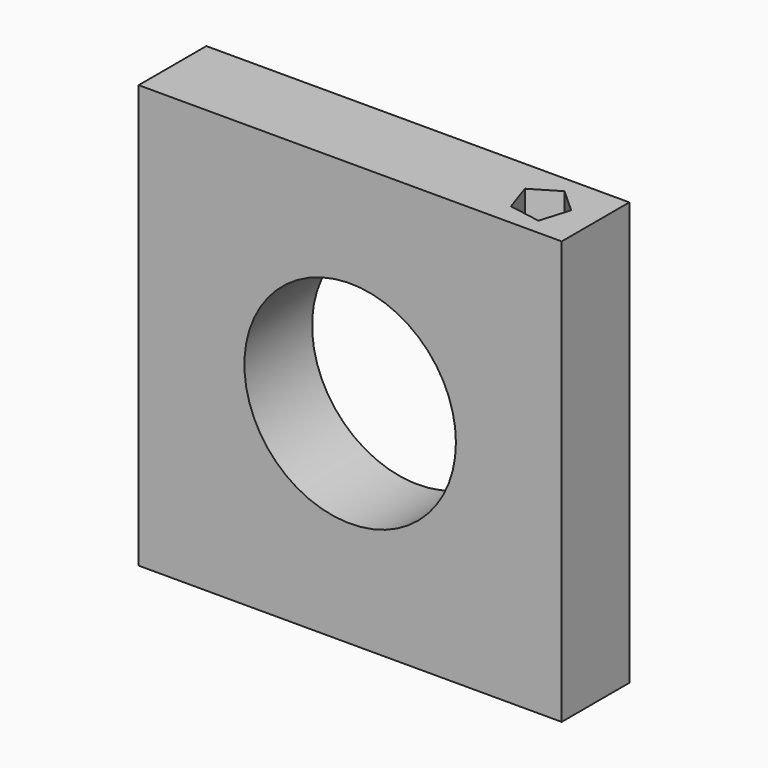
from build123d import *

# Parameters (mm, degrees)
F0_W     = 127
F0_H     = 127
F1_DEPTH = 25.4
F2_R     = 31.75
F3_DEPTH = 25.401
F5_DEPTH = 127.001


with BuildPart() as f1:
    # F0 (on Front) → F1 (new body)
    with BuildSketch(Plane.XZ):
        with Locations((63.5, 63.5)):
            Rectangle(F0_W, F0_H)
    extrude(amount=F1_DEPTH)

    # F2 (on face) → F3 (cut, through all)
    with BuildSketch(Plane.XZ.offset(25.4)):
        with Locations((63.5, 63.5)):
            Circle(F2_R)
    extrude(amount=-F3_DEPTH, mode=Mode.SUBTRACT)

    # F4 (on face) → F5 (cut, through all)
    with BuildSketch(Plane.XY.offset(127)):
        Polygon((111.601122, -5.075065), (103.562877, -9.875687), (106.577218, -18.918719), (116.17846, -20.593353), (118.857875, -11.661964), align=None)
    extrude(amount=-F5_DEPTH, mode=Mode.SUBTRACT)


solid = f1.part
